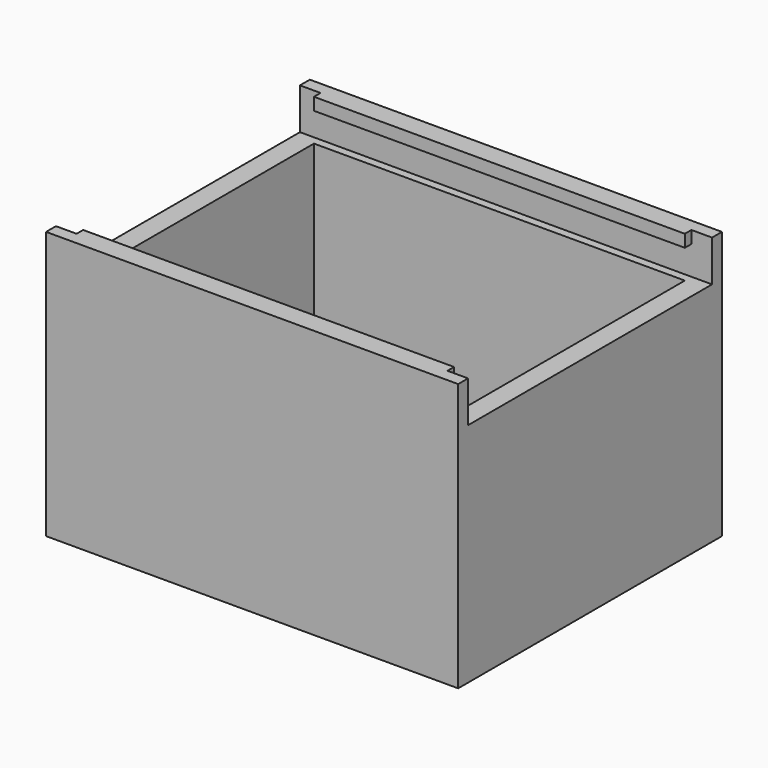
from build123d import *

# Parameters (mm, degrees)
SKETCH_W        = 90
SKETCH_H        = 70
PAD_DEPTH       = 60
THICKNESS_T     = 5
SKETCH001_W     = 45
SKETCH001_H     = 45
POCKET_DEPTH    = 3.5
POCKET001_DEPTH = 3.5
SKETCH002_W     = 74
SKETCH002_H     = 10
POCKET002_DEPTH = 5
SKETCH003_W     = 74
SKETCH003_H     = 10
POCKET003_DEPTH = 5
SKETCH004_W     = 74
SKETCH004_H     = 7
POCKET004_DEPTH = 90


with BuildPart() as part:
    # Sketch → Pad (new body)
    with BuildSketch(Plane.XY):
        Rectangle(SKETCH_W, SKETCH_H)
    extrude(amount=PAD_DEPTH)

    # Thickness
    thickness_openings = [part.faces().sort_by_distance(p)[0] for p in [
        (0, 0, 60),
    ]]
    offset(amount=THICKNESS_T, openings=thickness_openings, kind=Kind.INTERSECTION)

    # Sketch001 (on Face5 of Thickness) → Pocket (cut)
    with BuildSketch(Plane.XY):
        with Locations((-7.5, 0)):
            Rectangle(SKETCH001_W, SKETCH001_H)
    extrude(amount=-POCKET_DEPTH, mode=Mode.SUBTRACT)

    # Sketch001 (on Face5 of Thickness) → Pocket001 (cut)
    with BuildSketch(Plane.XY):
        with Locations((-7.5, 0)):
            Rectangle(SKETCH001_W, SKETCH001_H)
    extrude(amount=-POCKET001_DEPTH, mode=Mode.SUBTRACT)

    # Sketch002 (on Face12 of Pocket001) → Pocket002 (cut)
    with BuildSketch(Plane(origin=(-50, 0, 0), x_dir=(0, -1, 0), z_dir=(-1, 0, 0))):
        with Locations((0, 55)):
            Rectangle(SKETCH002_W, SKETCH002_H)
    extrude(amount=-POCKET002_DEPTH, mode=Mode.SUBTRACT)

    # Sketch003 (on Face18 of Pocket002) → Pocket003 (cut)
    with BuildSketch(Plane.YZ.offset(50)):
        with Locations((0, 55)):
            Rectangle(SKETCH003_W, SKETCH003_H)
    extrude(amount=-POCKET003_DEPTH, mode=Mode.SUBTRACT)

    # Sketch004 (on Face3 of Pocket003) → Pocket004 (cut)
    with BuildSketch(Plane(origin=(-45, 0, 0), x_dir=(0, -1, 0), z_dir=(-1, 0, 0))):
        with Locations((0, 53.5)):
            Rectangle(SKETCH004_W, SKETCH004_H)
    extrude(amount=-POCKET004_DEPTH, mode=Mode.SUBTRACT)


solid = part.part
